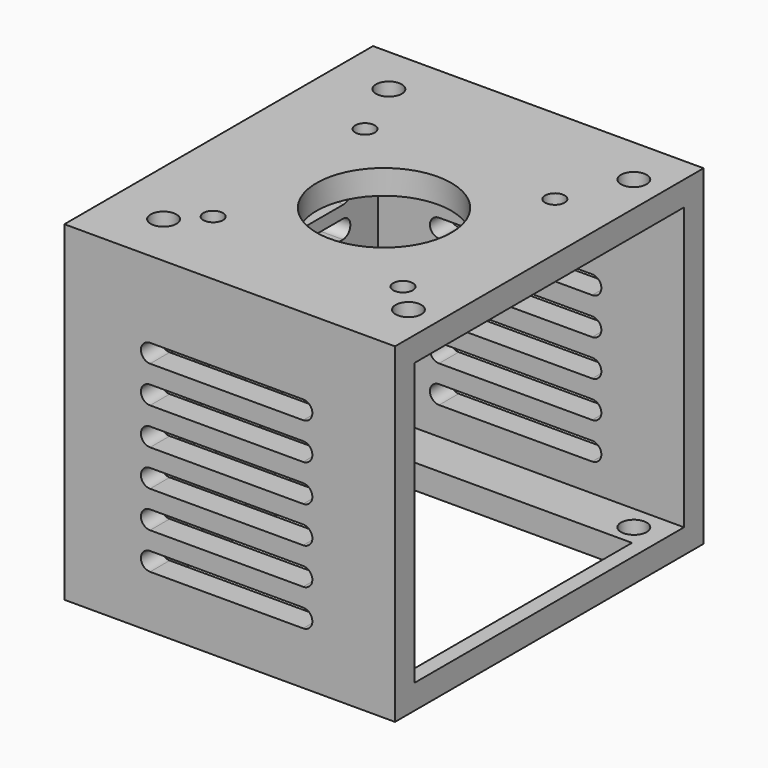
from build123d import *

# Parameters (mm, degrees)
SKETCH_W        = 50
SKETCH_H        = 55
PAD_DEPTH       = 4
PAD001_DEPTH    = 50
SKETCH002_R     = 11
POCKET_DEPTH    = 5
SKETCH003_R     = 1.6
POCKET001_DEPTH = 50
SKETCH004_W     = 54
SKETCH004_H     = 63
PAD002_DEPTH    = 4
SKETCH005_R     = 2.1
POCKET002_DEPTH = 60
POCKET003_DEPTH = 5
POCKET004_DEPTH = 70
SKETCH008_W     = 45
SKETCH008_H     = 45
POCKET005_DEPTH = 5


with BuildPart() as part:
    # Sketch → Pad (new body)
    with BuildSketch(Plane.XY):
        with Locations((25, 27.5)):
            Rectangle(SKETCH_W, SKETCH_H)
    extrude(amount=PAD_DEPTH)

    # Sketch001 (on Face6 of Pad) → Pad001 (join)
    with BuildSketch(Plane.XY.offset(4)):
        Polygon((50, 55), (50, 59), (-4, 59), (-4, -4), (50, -4), (50, 0), (0, 0), (0, 55), align=None)
    extrude(amount=-PAD001_DEPTH)

    # Sketch002 (on Face4 of Pad001) → Pocket (cut)
    with BuildSketch(Plane(origin=(0, 0, 0), x_dir=(1, 0, 0), z_dir=(0, 0, -1))):
        with Locations((25, -25)):
            Circle(SKETCH002_R)
    extrude(amount=-POCKET_DEPTH, mode=Mode.SUBTRACT)

    # Sketch003 (on Face5 of Pocket) → Pocket001 (cut)
    with BuildSketch(Plane.XY.offset(4)):
        with Locations((40.5, 40.5)):
            Circle(SKETCH003_R)
        with Locations((40.5, 9.5)):
            Circle(SKETCH003_R)
        with Locations((9.5, 9.5)):
            Circle(SKETCH003_R)
        with Locations((9.5, 40.5)):
            Circle(SKETCH003_R)
    extrude(amount=-POCKET001_DEPTH, mode=Mode.SUBTRACT)

    # Sketch004 (on DatumPlane) → Pad002 (join)
    with BuildSketch(Plane(origin=(0, 0, -46), x_dir=(1, 0, 0), z_dir=(0, 0, -1))):
        with Locations((23, -27.5)):
            Rectangle(SKETCH004_W, SKETCH004_H)
    extrude(amount=PAD002_DEPTH)

    # Sketch005 (on Face22 of Pad002) → Pocket002 (cut)
    with BuildSketch(Plane(origin=(0, 0, -50), x_dir=(1, 0, 0), z_dir=(0, 0, -1))):
        with Locations((5, -5)):
            Circle(SKETCH005_R)
        with Locations((45, -5)):
            Circle(SKETCH005_R)
        with Locations((45, -51)):
            Circle(SKETCH005_R)
        with Locations((5, -51)):
            Circle(SKETCH005_R)
    extrude(amount=-POCKET002_DEPTH, mode=Mode.SUBTRACT)

    # Sketch006 (on Face22 of Pocket002) → Pocket003 (cut)
    with BuildSketch(Plane(origin=(-4, 0, 0), x_dir=(0, -1, 0), z_dir=(-1, 0, 0))):
        with BuildLine():
            ThreePointArc((-48, -10), (-49.5, -11.5), (-48, -13))
            Line((-48, -13), (-8, -13))
            ThreePointArc((-8, -13), (-6.5, -11.5), (-8, -10))
            Line((-8, -10), (-48, -10))
        make_face()
        with BuildLine():
            ThreePointArc((-48, -24.994244), (-49.5, -26.494244), (-48, -27.994244))
            Line((-48, -27.994244), (-8, -27.994244))
            ThreePointArc((-8, -27.994244), (-6.5, -26.494244), (-8, -24.994244))
            Line((-8, -24.994244), (-48, -24.994244))
        make_face()
        with BuildLine():
            ThreePointArc((-47.876909, -14.998485), (-49.376909, -16.498485), (-47.876909, -17.998485))
            Line((-47.876909, -17.998485), (-7.876909, -17.998485))
            ThreePointArc((-7.876909, -17.998485), (-6.376909, -16.498485), (-7.876909, -14.998485))
            Line((-7.876909, -14.998485), (-47.876909, -14.998485))
        make_face()
        with BuildLine():
            ThreePointArc((-48.0704, -19.994739), (-49.5704, -21.494739), (-48.0704, -22.994739))
            Line((-48.0704, -22.994739), (-8.0704, -22.994739))
            ThreePointArc((-8.0704, -22.994739), (-6.5704, -21.494739), (-8.0704, -19.994739))
            Line((-8.0704, -19.994739), (-48.0704, -19.994739))
        make_face()
        with BuildLine():
            ThreePointArc((-48, -34.994244), (-49.5, -36.494244), (-48, -37.994244))
            Line((-48, -37.994244), (-8, -37.994244))
            ThreePointArc((-8, -37.994244), (-6.5, -36.494244), (-8, -34.994244))
            Line((-8, -34.994244), (-48, -34.994244))
        make_face()
        with BuildLine():
            ThreePointArc((-48, -29.994244), (-49.5, -31.494244), (-48, -32.994244))
            Line((-48, -32.994244), (-8, -32.994244))
            ThreePointArc((-8, -32.994244), (-6.5, -31.494244), (-8, -29.994244))
            Line((-8, -29.994244), (-48, -29.994244))
        make_face()
    extrude(amount=-POCKET003_DEPTH, mode=Mode.SUBTRACT)

    # Sketch007 (on Face11 of Pocket003) → Pocket004 (cut)
    with BuildSketch(Plane(origin=(0, 59, 0), x_dir=(-1, 0, 0), z_dir=(0, 1, 0))):
        with BuildLine():
            ThreePointArc((-35, -8.5), (-36.5, -10), (-35, -11.5))
            Line((-35, -11.5), (-10, -11.5))
            ThreePointArc((-10, -11.5), (-8.5, -10), (-10, -8.5))
            Line((-10, -8.5), (-35, -8.5))
        make_face()
        with BuildLine():
            ThreePointArc((-35, -14.5), (-36.5, -16), (-35, -17.5))
            Line((-35, -17.5), (-10, -17.5))
            ThreePointArc((-10, -17.5), (-8.5, -16), (-10, -14.5))
            Line((-10, -14.5), (-35, -14.5))
        make_face()
        with BuildLine():
            ThreePointArc((-35, -20.53228), (-36.5, -22.03228), (-35, -23.53228))
            Line((-35, -23.53228), (-10, -23.53228))
            ThreePointArc((-10, -23.53228), (-8.5, -22.03228), (-10, -20.53228))
            Line((-10, -20.53228), (-35, -20.53228))
        make_face()
        with BuildLine():
            ThreePointArc((-35, -26.484331), (-36.5, -27.984331), (-35, -29.484331))
            Line((-35, -29.484331), (-10, -29.484331))
            ThreePointArc((-10, -29.484331), (-8.5, -27.984331), (-10, -26.484331))
            Line((-10, -26.484331), (-35, -26.484331))
        make_face()
        with BuildLine():
            ThreePointArc((-35, -32.449028), (-36.5, -33.949028), (-35, -35.449028))
            Line((-35, -35.449028), (-10, -35.449028))
            ThreePointArc((-10, -35.449028), (-8.5, -33.949028), (-10, -32.449028))
            Line((-10, -32.449028), (-35, -32.449028))
        make_face()
        with BuildLine():
            ThreePointArc((-35, -38.428181), (-36.5, -39.928181), (-35, -41.428181))
            Line((-35, -41.428181), (-10, -41.428181))
            ThreePointArc((-10, -41.428181), (-8.5, -39.928181), (-10, -38.428181))
            Line((-10, -38.428181), (-35, -38.428181))
        make_face()
    extrude(amount=-POCKET004_DEPTH, mode=Mode.SUBTRACT)

    # Sketch008 (on Face50 of Pocket004) → Pocket005 (cut)
    with BuildSketch(Plane(origin=(0, 0, -50), x_dir=(1, 0, 0), z_dir=(0, 0, -1))):
        with Locations((25, -25)):
            Rectangle(SKETCH008_W, SKETCH008_H)
    extrude(amount=-POCKET005_DEPTH, mode=Mode.SUBTRACT)


solid = part.part
